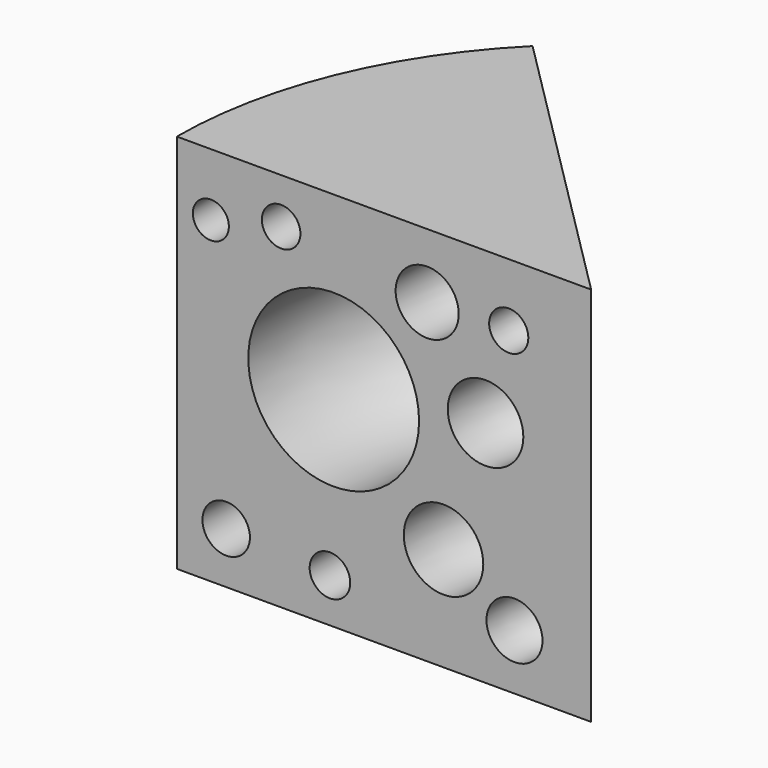
from build123d import *

# Parameters (mm, degrees)
F0_W     = 94.519034
F0_H     = 86.812686
F0_R     = 5.413518
F0_R_2   = 4.626995
F0_R_3   = 6.390639
F0_R_4   = 9.062056
F0_R_5   = 19.480322
F0_R_6   = 4.110136
F0_R_7   = 4.393433
F0_R_8   = 8.620442
F0_R_9   = 7.192681
F0_R_10  = 4.466697
F1_ANGLE = 45


with BuildPart() as f1:
    # F0 (on Front) → F1 (revolve)
    with BuildSketch(Plane.XZ):
        with Locations((-17.815083, 3.718389)):
            Rectangle(F0_W, F0_H)
        with Locations((-53.812075, -27.955186)):
            Circle(F0_R, mode=Mode.SUBTRACT)
        with Locations((-30.148292, -29.630704)):
            Circle(F0_R_2, mode=Mode.SUBTRACT)
        with Locations((11.945384, -26.993094)):
            Circle(F0_R_3, mode=Mode.SUBTRACT)
        with Locations((-4.236709, -16.035384)):
            Circle(F0_R_4, mode=Mode.SUBTRACT)
        with Locations((-29.292393, 7.944192)):
            Circle(F0_R_5, mode=Mode.SUBTRACT)
        with Locations((-57.312123, 32.896079)):
            Circle(F0_R_6, mode=Mode.SUBTRACT)
        with Locations((-41.277222, 36.766876)):
            Circle(F0_R_7, mode=Mode.SUBTRACT)
        with Locations((5.348549, 12.50712)):
            Circle(F0_R_8, mode=Mode.SUBTRACT)
        with Locations((-7.967654, 32.40367)):
            Circle(F0_R_9, mode=Mode.SUBTRACT)
        with Locations((10.63888, 32.776453)):
            Circle(F0_R_10, mode=Mode.SUBTRACT)
    revolve(axis=Axis((29.444434, 0, 3.718389), (0, 0, -1)), revolution_arc=F1_ANGLE)


solid = f1.part
